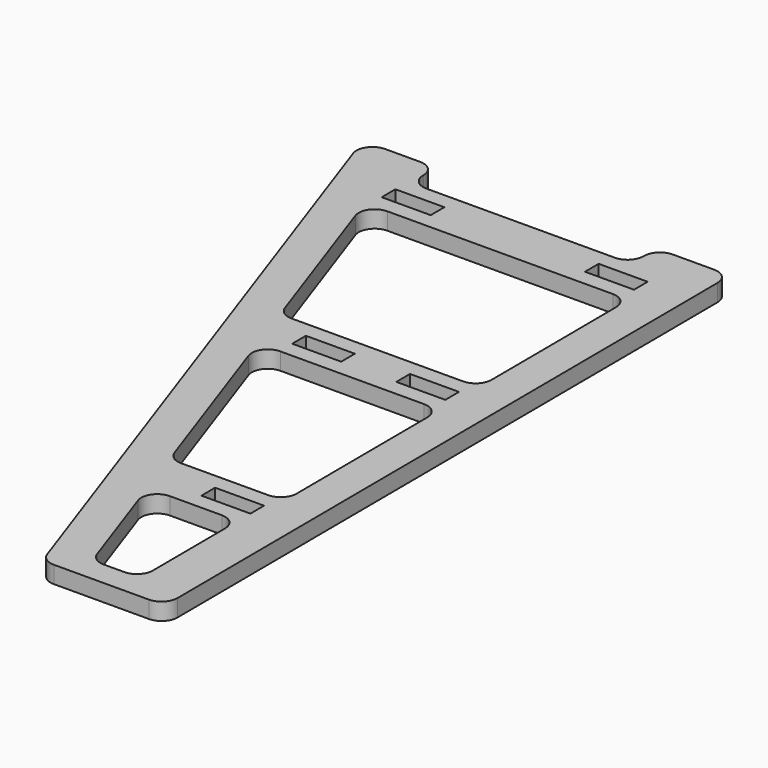
from build123d import *

# Parameters (mm, degrees)
SKETCH_W               = 20
SKETCH_H               = 7
PAD_DEPTH              = 7
FILLET_R               = 6.5
MIRROR_ROLL_ANGLE      = -179.860318
MIRROR_PITCH_ANGLE     = 1.669328
MIRROR_PLACEMENT_ANGLE = 0.337481


with BuildPart() as body:
    # Sketch → Pad (new body)
    with BuildSketch(Plane.XY):
        Polygon((0, 290), (50, 290), (150, 0), (120, 0), (120, 13.2), (30, 13.2), (30, 0), (0, 0), align=None)
        Polygon((15, 210), (15, 130), (89.30566, 130), (61.719453, 210), align=None, mode=Mode.SUBTRACT)
        Polygon((15, 110), (15, 33.2), (122.684971, 33.2), (96.202212, 110), align=None, mode=Mode.SUBTRACT)
        Polygon((18, 280), (18, 230), (54.822902, 230), (37.581522, 280), align=None, mode=Mode.SUBTRACT)
        with Locations((28, 220)):
            Rectangle(SKETCH_W, SKETCH_H, mode=Mode.SUBTRACT)
        with Locations((28, 120)):
            Rectangle(SKETCH_W, SKETCH_H, mode=Mode.SUBTRACT)
        with Locations((70.5, 120)):
            Rectangle(SKETCH_W, SKETCH_H, mode=Mode.SUBTRACT)
        with Locations((28, 23.2)):
            Rectangle(SKETCH_W, SKETCH_H, mode=Mode.SUBTRACT)
        with Locations((111, 23.2)):
            Rectangle(SKETCH_W, SKETCH_H, mode=Mode.SUBTRACT)
    extrude(amount=PAD_DEPTH)

    # Fillet
    fillet_edges = [body.edges().sort_by_distance(p)[0] for p in [
        (0, 0, 3.5),
        (50, 290, 3.5),
        (0, 290, 3.5),
        (150, 0, 3.5),
        (120, 0, 3.5),
        (30, 0, 3.5),
        (61.719453, 210, 3.5),
        (15, 210, 3.5),
        (96.202212, 110, 3.5),
        (15, 110, 3.5),
        (15, 130, 3.5),
        (15, 33.2, 3.5),
        (122.684971, 33.2, 3.5),
        (89.30566, 130, 3.5),
        (30, 13.2, 3.5),
        (120, 13.2, 3.5),
        (18, 280, 3.5),
        (18, 230, 3.5),
        (37.581522, 280, 3.5),
        (54.822902, 230, 3.5),
    ]]
    fillet(fillet_edges, radius=FILLET_R)


with BuildPart() as body_1:
    # Body placement: moved
    add(body.part.moved(Location((-2, 0, 0))))


with BuildPart() as body_mirrored:
    # mirror: instance of Body
    add(body_1.part.mirror(Plane(origin=(159.181488, 124.226166, 5.790833), x_dir=(-0.001618, 0.999999, 0), z_dir=(-0.999887, -0.001617, 0.014919))))


with BuildPart() as body_mirrored_1:
    # mirror roll: moved
    add(body_mirrored.part.rotate(Axis((0, 0, 0), (1, 0, 0)), MIRROR_ROLL_ANGLE))


with BuildPart() as body_mirrored_2:
    # mirror pitch: moved
    add(body_mirrored_1.part.rotate(Axis((0, 0, 0), (0, 1, 0)), MIRROR_PITCH_ANGLE))


with BuildPart() as body_mirrored_3:
    # mirror placement: moved
    add(body_mirrored_2.part.moved(Location((-113.201923, 287.892908, 10.586))).rotate(Axis((-113.201923, 287.892908, 10.586), (0, 0, 1)), MIRROR_PLACEMENT_ANGLE))


solid = body_mirrored_3.part
